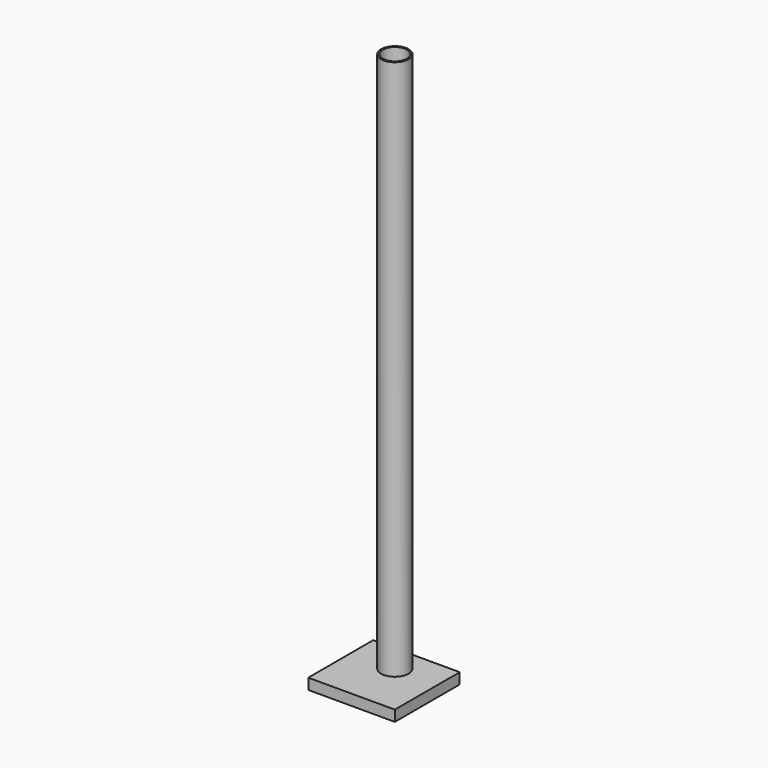
from build123d import *

# Parameters (mm, degrees)
F0_R     = 12.7
F0_R_2   = 11.2
F1_DEPTH = 500
F2_W     = 80
F2_H     = 75
F2_R     = 12.7
F3_DEPTH = 10


with BuildPart() as f1:
    # F0 (on Top) → F1 (new body)
    with BuildSketch(Plane.XY):
        Circle(F0_R)
        Circle(F0_R_2, mode=Mode.SUBTRACT)
    extrude(amount=F1_DEPTH)


with BuildPart() as f3:
    # F2 (on Top) → F3 (new body)
    with BuildSketch(Plane.XY):
        with Locations((0, -12.5)):
            Rectangle(F2_W, F2_H)
        Circle(F2_R, mode=Mode.SUBTRACT)
    extrude(amount=-F3_DEPTH)


solid = Compound([f1.part, f3.part])
